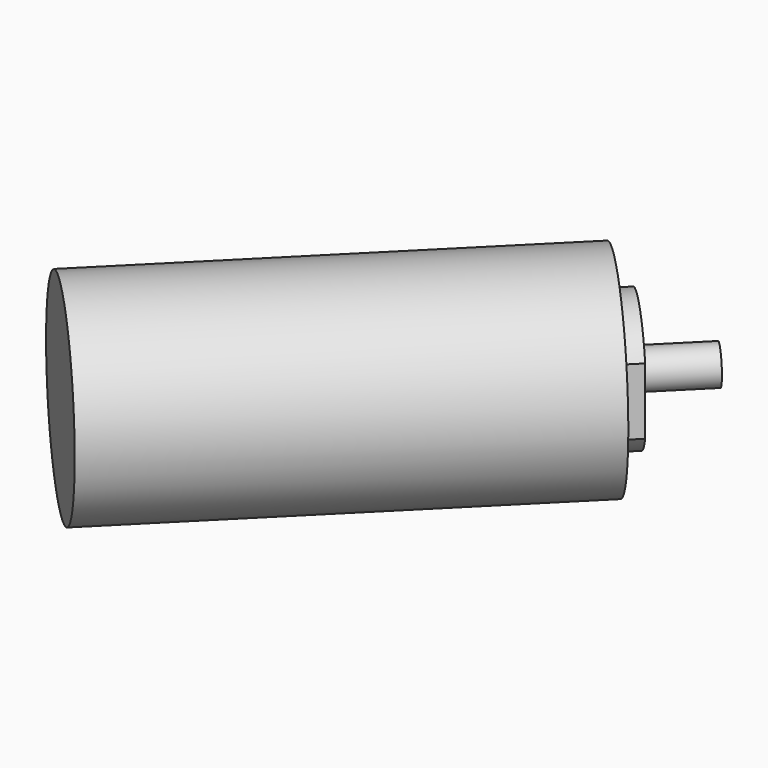
from build123d import *

# Parameters (mm, degrees)
SKETCH100_R             = 11
PAD043_DEPTH            = 47.3
PAD044_DEPTH            = 2
SKETCH102_R             = 1
POCKET053_DEPTH         = 5
SKETCH103_R             = 2
PAD045_DEPTH            = 14
BODY029_PLACEMENT_ANGLE = 135


with BuildPart() as part:
    # Sketch100 → Pad043 (new body)
    with BuildSketch(Plane.XZ):
        Circle(SKETCH100_R)
    extrude(amount=-PAD043_DEPTH)

    # Sketch101 (on Face2 of Pad043) → Pad044 (join)
    with BuildSketch(Plane.XZ):
        with BuildLine():
            Line((-6, 3.605551), (-6, -3.605551))
            ThreePointArc((-6, -3.605551), (0, -7), (6, -3.605551))
            Line((6, -3.605551), (6, 3.605551))
            ThreePointArc((6, 3.605551), (0, 7), (-6, 3.605551))
        make_face()
    extrude(amount=PAD044_DEPTH)

    # Sketch102 (on Face2 of Pad044) → Pocket053 (cut)
    with BuildSketch(Plane.XZ):
        with Locations((-6.363961, 6.363961)):
            Circle(SKETCH102_R)
        with Locations((6.363961, 6.363961)):
            Circle(SKETCH102_R)
        with Locations((6.363961, -6.363961)):
            Circle(SKETCH102_R)
        with Locations((-6.363961, -6.363961)):
            Circle(SKETCH102_R)
    extrude(amount=-POCKET053_DEPTH, mode=Mode.SUBTRACT)

    # Sketch103 (on Face14 of Pocket053) → Pad045 (join)
    with BuildSketch(Plane.XZ.offset(-5)):
        Circle(SKETCH103_R)
    extrude(amount=PAD045_DEPTH)


with BuildPart() as part_1:
    # Body029 placement: moved
    add(part.part.moved(Location((58.5, 58.5, 17))).rotate(Axis((58.5, 58.5, 17), (0, 0, 1)), BODY029_PLACEMENT_ANGLE))


solid = part_1.part
